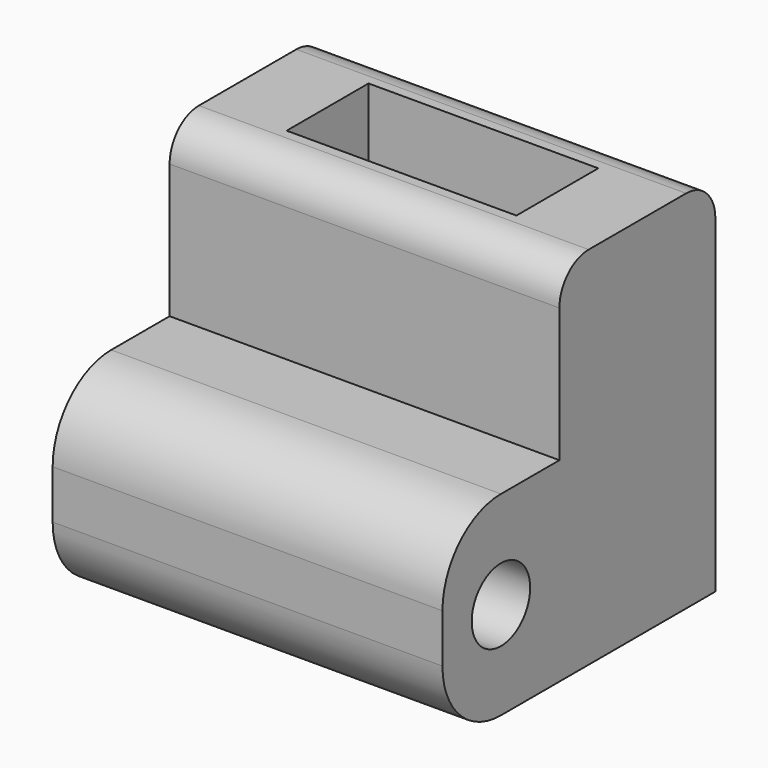
from build123d import *

# Parameters (mm, degrees)
F0_W     = 16
F0_H     = 8
F0_W_2   = 9.43
F0_H_2   = 4.2
F1_DEPTH = 15
F2_W     = 16
F2_H     = 8
F3_DEPTH = 6
F4_R     = 3
F6_D     = 3
F7_R     = 1.5


with BuildPart() as f1:
    # F0 (on Top) → F1 (new body)
    with BuildSketch(Plane.XY):
        Rectangle(F0_W, F0_H)
        Rectangle(F0_W_2, F0_H_2, mode=Mode.SUBTRACT)
    extrude(amount=F1_DEPTH)

    # F2 (on face) → F3 (join)
    with BuildSketch(Plane.XZ.offset(4)):
        with Locations((0, 4)):
            Rectangle(F2_W, F2_H)
    extrude(amount=F3_DEPTH)

    # F4
    f4_edges = [f1.edges().sort_by_distance(p)[0] for p in [
        (0, -10, 0),
        (0, -10, 8),
    ]]
    fillet(f4_edges, radius=F4_R)

    # F6 (through all)
    with Locations(Plane(origin=(-8, 0, 0), x_dir=(0, -1, 0), z_dir=(-1, 0, 0))):
        with Locations((7, 4)):
            Hole(F6_D / 2)

    # F7
    f7_edges = [f1.edges().sort_by_distance(p)[0] for p in [
        (0, -4, 15),
        (0, 4, 15),
    ]]
    fillet(f7_edges, radius=F7_R)


solid = f1.part
